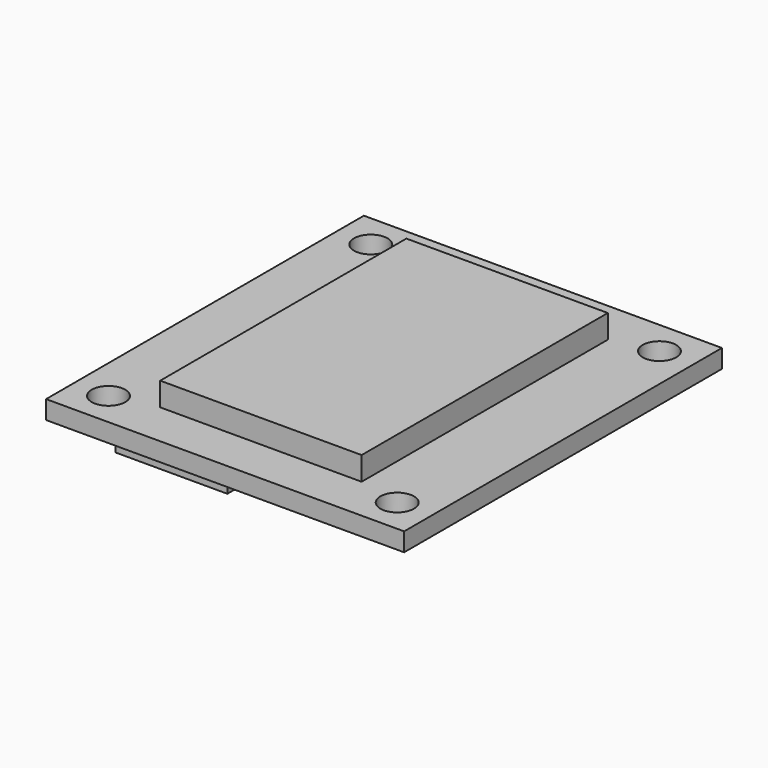
from build123d import *

# Parameters (mm, degrees)
SKETCH042_W  = 32
SKETCH042_H  = 35.5
SKETCH042_R  = 1.5
PAD025_DEPTH = 1.65
SKETCH043_W  = 18
SKETCH043_H  = 27.5
PAD026_DEPTH = 2.1
SKETCH044_W  = 10
SKETCH044_H  = 20
PAD027_DEPTH = 5.7


with BuildPart() as part:
    # Sketch042 → Pad025 (new body)
    with BuildSketch(Plane.XY):
        with Locations((16, 17.75)):
            Rectangle(SKETCH042_W, SKETCH042_H)
        with Locations((3.1, 32.4)):
            Circle(SKETCH042_R, mode=Mode.SUBTRACT)
        with Locations((28.9, 32.4)):
            Circle(SKETCH042_R, mode=Mode.SUBTRACT)
        with Locations((28.9, 3.1)):
            Circle(SKETCH042_R, mode=Mode.SUBTRACT)
        with Locations((3.1, 3.1)):
            Circle(SKETCH042_R, mode=Mode.SUBTRACT)
    extrude(amount=PAD025_DEPTH)

    # Sketch043 (on Face10 of Pad025) → Pad026 (join)
    with BuildSketch(Plane.XY.offset(1.65)):
        with Locations((16, 17.75)):
            Rectangle(SKETCH043_W, SKETCH043_H)
    extrude(amount=PAD026_DEPTH)

    # Sketch044 (on Face4 of Pad026) → Pad027 (join)
    with BuildSketch(Plane(origin=(0, 0, 0), x_dir=(1, 0, 0), z_dir=(0, 0, -1))):
        with Locations((5, -17.75)):
            Rectangle(SKETCH044_W, SKETCH044_H)
    extrude(amount=PAD027_DEPTH)


with BuildPart() as part_1:
    # Body006 placement: moved
    add(part.part.moved(Location((2, 6, 37.75))))


solid = part_1.part
